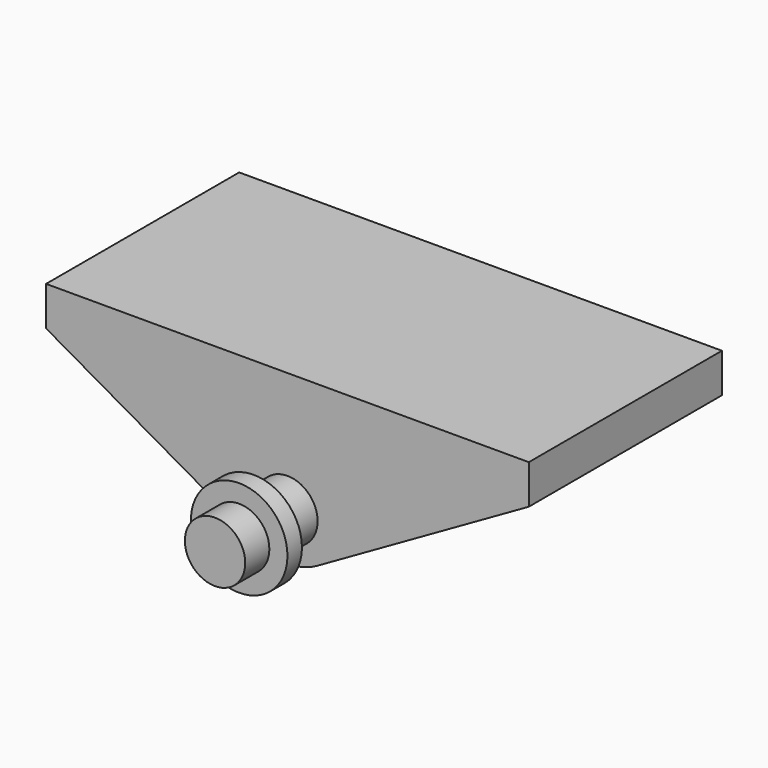
from build123d import *

# Parameters (mm, degrees)
F0_R     = 5
F1_DEPTH = 20
F2_DEPTH = 35
F4_R     = 8
F5_DEPTH = 3


with BuildPart() as f1:
    # F0 (on Front) → F1 (new body, symmetric)
    with BuildSketch(Plane.XZ):
        with BuildLine():
            Line((40, 20), (0, 20))
            Line((0, 20), (-40, 20))
            Line((-40, 20), (-40, 13.5))
            Line((-40, 13.5), (-4.9582247647, -6.5069341219))
            ThreePointArc((-4.9582247647, -6.5069341219), (0, -7.822695112), (4.9582247647, -6.5069341219))
            Line((4.9582247647, -6.5069341219), (40, 13.5))
            Line((40, 13.5), (40, 20))
        make_face()
        Circle(F0_R, mode=Mode.SUBTRACT)
    extrude(amount=F1_DEPTH, both=True)

    # F0 (on Front) → F2 (join, symmetric)
    with BuildSketch(Plane.XZ):
        Circle(F0_R)
    extrude(amount=F2_DEPTH, both=True)

    # F4 (on offset) → F5 (join)
    with BuildSketch(Plane.XZ.offset(27)):
        Circle(F4_R)
    extrude(amount=F5_DEPTH)

    # F6: F1 across plane


with BuildPart() as f1_1:
    add(f1.part)
    add(f1.part.mirror(Plane.XZ))


solid = f1_1.part
